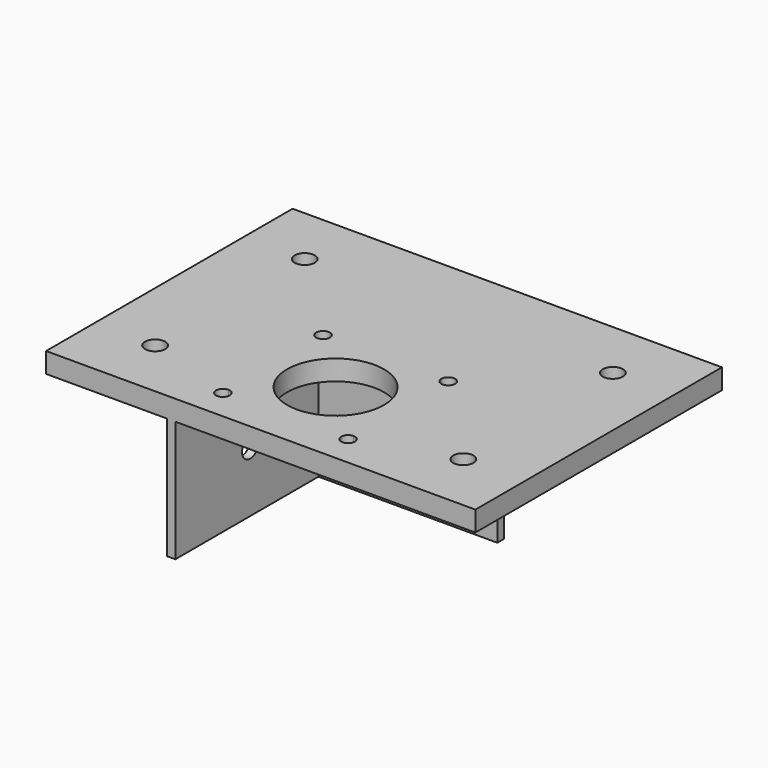
from build123d import *

# Parameters (mm, degrees)
F0_W           = 42.3
F0_H           = 42.3
F0_R           = 12
F0_R_2         = 2.5
F0_H_2         = 2
F1_DEPTH       = 5
F2_DEPTH       = 30
F6_D           = 5
F6_DEPTH       = 12.7
F6_TIP         = 1.5021515476
F6_ON_F5_D     = 5
F6_ON_F5_DEPTH = 12.7
F6_ON_F5_TIP   = 1.5021515476


with BuildPart() as f1:
    # F0 (on Top) → F1 (new body)
    with BuildSketch(Plane.XY):
        Polygon((-21.15, 21.15), (21.15, 21.15), (23.15, 21.15), (23.15, 23.15), (-23.15, 23.15), (-23.15, 21.15), align=None)
        Rectangle(F0_W, F0_H)
        with BuildLine():
            ThreePointArc((-15.5, 13.8), (-16.702081528, 16.702081528), (-13.8, 15.5))
            Line((-13.8, 15.5), (13.8, 15.5))
            ThreePointArc((13.8, 15.5), (15.5, 17.2), (17.2, 15.5))
            ThreePointArc((17.2, 15.5), (16.702081528, 14.297918472), (15.5, 13.8))
            Line((15.5, 13.8), (15.5, -13.8))
            ThreePointArc((15.5, -13.8), (16.702081528, -14.297918472), (17.2, -15.5))
            ThreePointArc((17.2, -15.5), (15.5, -17.2), (13.8, -15.5))
            Line((13.8, -15.5), (-13.8, -15.5))
            ThreePointArc((-13.8, -15.5), (-16.702081528, -16.702081528), (-15.5, -13.8))
            Line((-15.5, -13.8), (-15.5, 13.8))
        make_face(mode=Mode.SUBTRACT)
        with BuildLine():
            Line((13.8, 15.5), (-13.8, 15.5))
            ThreePointArc((-13.8, 15.5), (-14.297918472, 14.297918472), (-15.5, 13.8))
            Line((-15.5, 13.8), (-15.5, -13.8))
            ThreePointArc((-15.5, -13.8), (-14.297918472, -14.297918472), (-13.8, -15.5))
            Line((-13.8, -15.5), (13.8, -15.5))
            ThreePointArc((13.8, -15.5), (14.297918472, -14.297918472), (15.5, -13.8))
            Line((15.5, -13.8), (15.5, 13.8))
            ThreePointArc((15.5, 13.8), (14.297918472, 14.297918472), (13.8, 15.5))
        make_face()
        Circle(F0_R, mode=Mode.SUBTRACT)
        Polygon((23.15, 23.15), (23.15, 21.15), (23.15, -23.15), (53.15, -23.15), (53.15, 53.15), (-53.15, 53.15), (-53.15, -23.15), (-23.15, -23.15), (-23.15, 21.15), (-23.15, 23.15), align=None)
        with Locations((-38.15, -8.15)):
            Circle(F0_R_2, mode=Mode.SUBTRACT)
        with Locations((38.15, -8.15)):
            Circle(F0_R_2, mode=Mode.SUBTRACT)
        with Locations((-38.15, 38.15)):
            Circle(F0_R_2, mode=Mode.SUBTRACT)
        with Locations((38.15, 38.15)):
            Circle(F0_R_2, mode=Mode.SUBTRACT)
        Polygon((-21.15, -21.15), (-21.15, 21.15), (-23.15, 21.15), (-23.15, -23.15), (-21.15, -23.15), align=None)
        Polygon((23.15, 21.15), (21.15, 21.15), (21.15, -21.15), (21.15, -23.15), (23.15, -23.15), align=None)
        with Locations((0, -22.15)):
            Rectangle(F0_W, F0_H_2)
    extrude(amount=F1_DEPTH)

    # F0 (on Top) → F2 (join)
    with BuildSketch(Plane.XY):
        Polygon((-21.15, 21.15), (21.15, 21.15), (23.15, 21.15), (23.15, 23.15), (-23.15, 23.15), (-23.15, 21.15), align=None)
        Polygon((-21.15, -21.15), (-21.15, 21.15), (-23.15, 21.15), (-23.15, -23.15), (-21.15, -23.15), align=None)
    extrude(amount=-F2_DEPTH)

    # F6
    with Locations(Plane.YZ.offset(-21.15)):
        with Locations((0, -15)):
            Hole(F6_D / 2, depth=F6_DEPTH)
            with Locations((0, 0, -(F6_DEPTH + F6_TIP / 2))):  # 118° drill point
                Cone(0, F6_D / 2, F6_TIP, mode=Mode.SUBTRACT)

    # F6 on F5
    with Locations(Plane.XZ.offset(-21.15)):
        with Locations((0, -15)):
            Hole(F6_ON_F5_D / 2, depth=F6_ON_F5_DEPTH)
            with Locations((0, 0, -(F6_ON_F5_DEPTH + F6_ON_F5_TIP / 2))):  # 118° drill point
                Cone(0, F6_ON_F5_D / 2, F6_ON_F5_TIP, mode=Mode.SUBTRACT)


solid = f1.part
